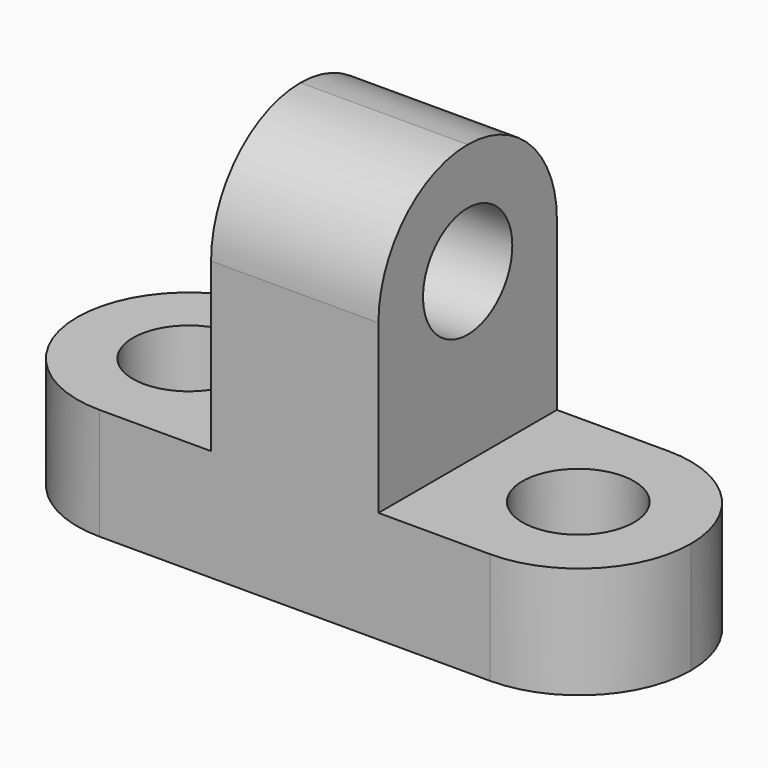
from build123d import *

# Parameters (mm, degrees)
F0_W     = 69.85
F0_H     = 44.45
F1_DEPTH = 25.4
F2_W     = 25.4
F2_H     = 31.75
F3_DEPTH = 25.4
F4_R     = 6.35
F5_DEPTH = 19.05
F6_R     = 6.35
F7_DEPTH = 25.4
F9_DEPTH = 25.4


with BuildPart() as f1:
    # F0 (on Front) → F1 (new body)
    with BuildSketch(Plane.XZ):
        with Locations((34.925, 22.225)):
            Rectangle(F0_W, F0_H)
    extrude(amount=F1_DEPTH)

    # F2 (on face) → F3 (cut)
    with BuildSketch(Plane.XZ.offset(25.4)):
        with Locations((12.7, 28.575)):
            Rectangle(F2_W, F2_H)
        with Locations((57.15, 28.575)):
            Rectangle(F2_W, F2_H)
    extrude(amount=-F3_DEPTH, mode=Mode.SUBTRACT)

    # F4 (on face) → F5 (cut)
    with BuildSketch(Plane.YZ.offset(44.45)):
        with BuildLine():
            ThreePointArc((-25.4, 31.75), (-21.6802561211, 40.7302561211), (-12.7, 44.45))
            Line((-12.7, 44.45), (-25.4, 44.45))
            Line((-25.4, 44.45), (-25.4, 31.75))
        make_face()
        with BuildLine():
            ThreePointArc((-12.7, 44.45), (-3.7197438789, 40.7302561211), (0, 31.75))
            Line((0, 31.75), (0, 44.45))
            Line((0, 44.45), (-12.7, 44.45))
        make_face()
        with Locations((-12.7, 31.75)):
            Circle(F4_R)
    extrude(amount=-F5_DEPTH, mode=Mode.SUBTRACT)

    # F6 (on face) → F7 (cut)
    with BuildSketch(Plane.XY.offset(12.7)):
        with BuildLine():
            ThreePointArc((12.7, -25.4), (3.7197438789, -21.6802561211), (0, -12.7))
            Line((0, -12.7), (0, -25.4))
            Line((0, -25.4), (12.7, -25.4))
        make_face()
        with BuildLine():
            ThreePointArc((0, -12.7), (3.7197438789, -3.7197438789), (12.7, 0))
            Line((12.7, 0), (0, 0))
            Line((0, 0), (0, -12.7))
        make_face()
        with Locations((56.9801622552, -12.6258491292)):
            Circle(F6_R)
        with Locations((12.7, -12.7)):
            Circle(F6_R)
    extrude(amount=-F7_DEPTH, mode=Mode.SUBTRACT)

    # F8 (on face) → F9 (cut)
    with BuildSketch(Plane.XY.offset(12.7)):
        with BuildLine():
            ThreePointArc((57.15, 0), (66.1302561211, -3.7197438789), (69.85, -12.7))
            Line((69.85, -12.7), (69.85, 0))
            Line((69.85, 0), (57.15, 0))
        make_face()
        with BuildLine():
            ThreePointArc((69.85, -12.7), (66.1302561211, -21.6802561211), (57.15, -25.4))
            Line((57.15, -25.4), (69.85, -25.4))
            Line((69.85, -25.4), (69.85, -12.7))
        make_face()
    extrude(amount=-F9_DEPTH, mode=Mode.SUBTRACT)


solid = f1.part
